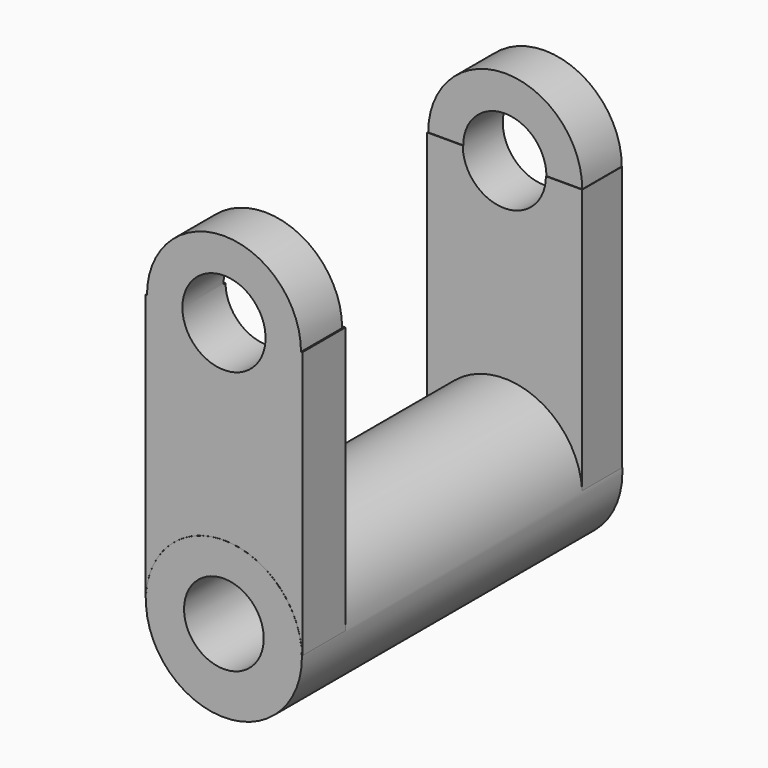
from build123d import *

# Parameters (mm, degrees)
F0_R      = 29.6723424489
F1_DEPTH  = 38.1
F2_DEPTH  = 38.1
F3_DEPTH  = 76.2
F4_W      = 59.6218928695
F4_H      = 20.4950273037
F5_DEPTH  = 50.8
F6_DEPTH  = 50.8
F8_DEPTH  = 19.558
F10_DEPTH = 19.05
F12_DEPTH = 18.796
F13_R     = 15.1650839795
F14_DEPTH = 203.2
F15_R     = 15.8233600447
F16_DEPTH = 177.8


with BuildPart() as f1:
    # F0 (on Front) → F1 (new body)
    with BuildSketch(Plane.XZ):
        with Locations((0, -51.4704622328)):
            Circle(F0_R)
    extrude(amount=F1_DEPTH)

    # F2 (add): a face of the model
    f2_faces = [f1.faces().sort_by_distance(p)[0] for p in [
        (0, -38.1, -51.4704622328),
    ]]
    extrude(f2_faces, amount=F2_DEPTH)

    # F3 (add): a face of the model
    f3_faces = [f1.faces().sort_by_distance(p)[0] for p in [
        (0, 0, -51.4704622328),
    ]]
    extrude(f3_faces, amount=F3_DEPTH)

    # F4 (on Top) → F5 (join)
    with BuildSketch(Plane.XY):
        with Locations((1.8626e-06, -65.9101381898)):
            Rectangle(F4_W, F4_H)
    extrude(amount=-F5_DEPTH)

    # F6 (add): a face of the model
    f6_faces = [f1.faces().sort_by_distance(p)[0] for p in [
        (1.8626e-06, -65.9101381898, 0),
    ]]
    extrude(f6_faces, amount=F6_DEPTH)

    # F7 (on face) → F8 (join)
    with BuildSketch(Plane.XZ.offset(76.1576518416)):
        with BuildLine():
            Line((-29.2987728327, 50.8), (29.298776558, 50.8))
            ThreePointArc((29.298776558, 50.8), (1.8626e-06, 80.0987746954), (-29.2987728327, 50.8))
        make_face()
    extrude(amount=-F8_DEPTH)

    # F9 (on face) → F10 (join)
    with BuildSketch(Plane(origin=(0, 76.2, 0), x_dir=(-1, 0, 0), z_dir=(0, 1, 0))):
        with BuildLine():
            Line((-29.6259251728, 51.0046631098), (-29.6259251728, -49.811407061))
            ThreePointArc((-29.6259251728, -49.811407061), (-1.3748108286, -21.8299865013), (29.3451528996, -47.0761582262))
            Line((29.3451528996, -47.0761582262), (29.3451528996, 51.0046631098))
            Line((29.3451528996, 51.0046631098), (-29.6259251728, 51.0046631098))
        make_face()
    extrude(amount=-F10_DEPTH)

    # F11 (on face) → F12 (join)
    with BuildSketch(Plane(origin=(0, 76.2, 0), x_dir=(-1, 0, 0), z_dir=(0, 1, 0))):
        with BuildLine():
            Line((-29.4398787195, 51.0046631098), (29.1591064463, 51.0046631098))
            ThreePointArc((29.1591064463, 51.0046631098), (-0.1403861366, 80.3041556927), (-29.4398787195, 51.0046631098))
        make_face()
    extrude(amount=-F12_DEPTH)

    # F13 (on face) → F14 (cut)
    with BuildSketch(Plane(origin=(0, 76.2, 0), x_dir=(-1, 0, 0), z_dir=(0, 1, 0))):
        with Locations((0, -49.811407061)):
            Circle(F13_R)
    extrude(amount=-F14_DEPTH, mode=Mode.SUBTRACT)

    # F15 (on face) → F16 (cut)
    with BuildSketch(Plane(origin=(0, 76.2, 0), x_dir=(-1, 0, 0), z_dir=(0, 1, 0))):
        with Locations((0, 51.0046631098)):
            Circle(F15_R)
    extrude(amount=-F16_DEPTH, mode=Mode.SUBTRACT)


solid = f1.part
